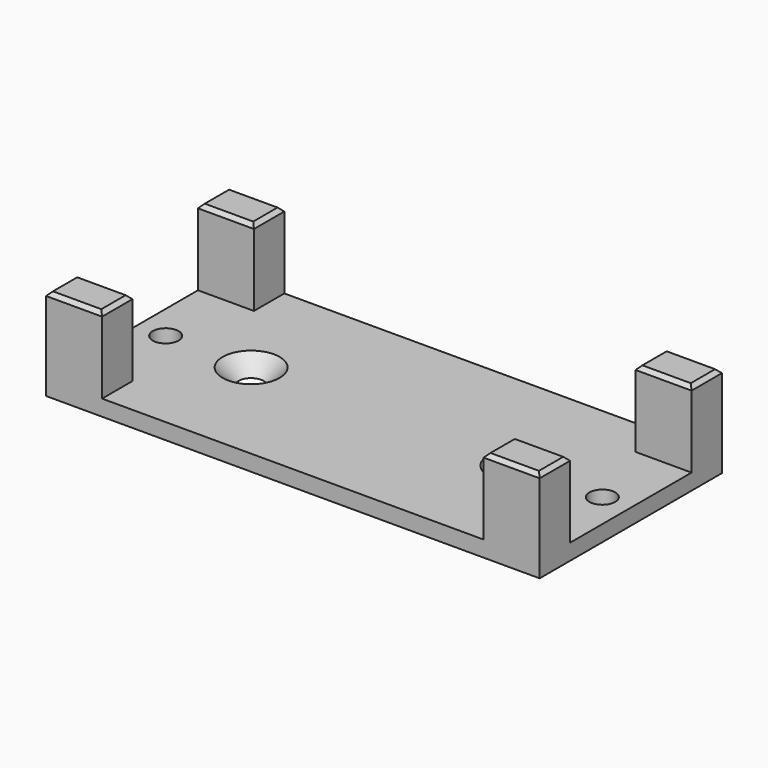
from build123d import *

# Parameters (mm, degrees)
F0_W           = 130
F0_H           = 60
F1_DEPTH       = 4.2
F2_W           = 14.75
F2_H           = 10
F3_DEPTH       = 20
F5_D           = 6.8
F7_D           = 6
F7_CSINK_D     = 15
F7_CSINK_ANGLE = 90
F8_SIZE        = 1


with BuildPart() as f1:
    # F0 (on Top) → F1 (new body)
    with BuildSketch(Plane.XY):
        Rectangle(F0_W, F0_H)
    extrude(amount=F1_DEPTH)

    # F2 (on face) → F3 (join)
    with BuildSketch(Plane.XY.offset(4.2)):
        with Locations((-57.625, 25)):
            Rectangle(F2_W, F2_H)
        with Locations((-57.625, -25)):
            Rectangle(F2_W, F2_H)
        with Locations((57.625, -25)):
            Rectangle(F2_W, F2_H)
        with Locations((57.625, 25)):
            Rectangle(F2_W, F2_H)
    extrude(amount=F3_DEPTH)

    # F5 (through all)
    with Locations(Plane.XY.offset(4.2)):
        with Locations((57.5, 0), (-57.5, 0)):
            Hole(F5_D / 2)

    # F7 (through all)
    with Locations(Plane.XY.offset(4.2)):
        with Locations((35, 0), (-35, 0)):
            CounterSinkHole(F7_D / 2, F7_CSINK_D / 2, counter_sink_angle=F7_CSINK_ANGLE)

    # F8
    f8_edges = [f1.edges().sort_by_distance(p)[0] for p in [
        (-50.25, -25, 24.2),
        (-57.625, -30, 24.2),
        (-65, -25, 24.2),
        (-57.625, -20, 24.2),
        (-57.625, 30, 24.2),
        (-65, 25, 24.2),
        (-57.625, 20, 24.2),
        (-50.25, 25, 24.2),
        (65, -25, 24.2),
        (57.625, -20, 24.2),
        (50.25, -25, 24.2),
        (57.625, -30, 24.2),
        (57.625, 30, 24.2),
        (50.25, 25, 24.2),
        (57.625, 20, 24.2),
        (65, 25, 24.2),
    ]]
    chamfer(f8_edges, length=F8_SIZE)


solid = f1.part
